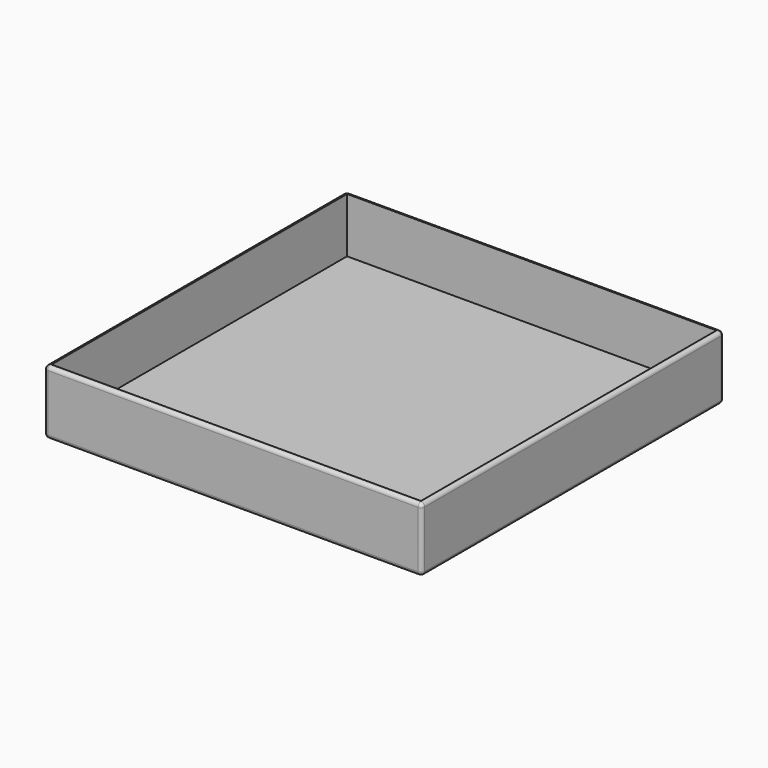
from build123d import *

# Parameters (mm, degrees)
F0_W     = 206.5
F0_H     = 206.5
F1_DEPTH = 35
F2_W     = 202
F2_H     = 202
F3_DEPTH = 30
F4_R     = 2


with BuildPart() as f1:
    # F0 (on Top) → F1 (new body)
    with BuildSketch(Plane.XY):
        with Locations((-30.486728, 0.165322)):
            Rectangle(F0_W, F0_H)
    extrude(amount=F1_DEPTH)

    # F2 (on face) → F3 (cut)
    with BuildSketch(Plane.XY.offset(35)):
        with Locations((-30.586105, 0.294354)):
            Rectangle(F2_W, F2_H)
    extrude(amount=-F3_DEPTH, mode=Mode.SUBTRACT)

    # F4
    f4_edges = [f1.edges().sort_by_distance(p)[0] for p in [
        (-133.736728, -103.084678, 17.5),
        (72.763272, -103.084678, 17.5),
        (-30.486728, -103.084678, 0),
        (-30.486728, -103.084678, 35),
        (72.763272, 0.165322, 0),
        (-30.486728, 103.415322, 0),
        (-133.736728, 0.165322, 0),
        (-133.736728, 103.415322, 17.5),
        (-133.736728, 0.165322, 35),
        (72.763272, 103.415322, 17.5),
        (-30.486728, 103.415322, 35),
        (72.763272, 0.165322, 35),
    ]]
    fillet(f4_edges, radius=F4_R)


solid = f1.part
